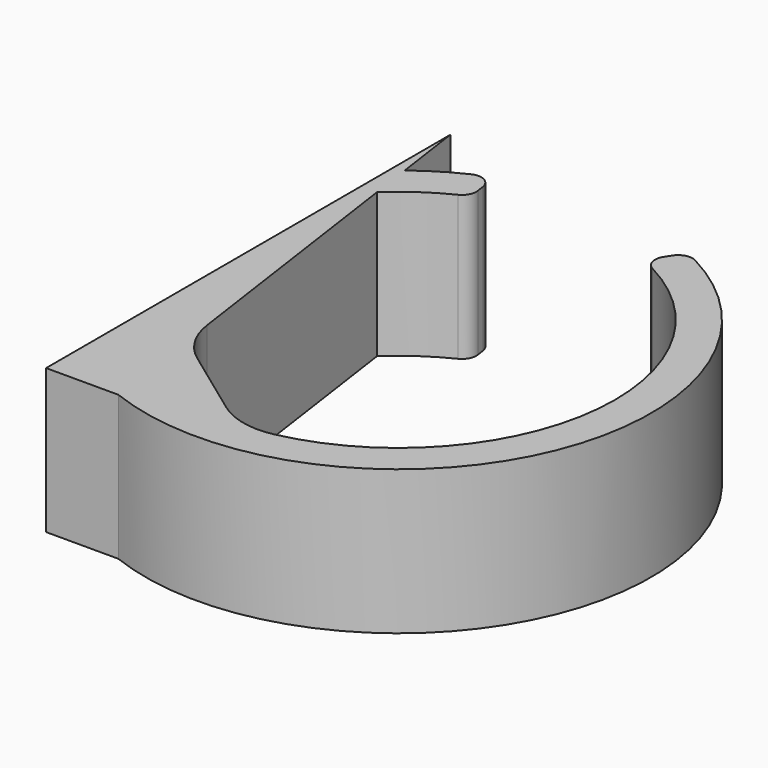
from build123d import *

# Parameters (mm, degrees)
F1_DEPTH = 10


with BuildPart() as f1:
    # F0 (on Top) → F1 (new body)
    with BuildSketch(Plane.XY):
        with BuildLine():
            Line((0, 35), (0, 0))
            Line((0, 0), (5, 0))
            ThreePointArc((5, 0), (27.268138, 9.037983), (19.515337, 31.785493))
            ThreePointArc((19.515337, 31.785493), (18.791109, 31.867286), (18.203721, 31.43581))
            Line((18.203721, 31.43581), (17.935476, 31.011956))
            ThreePointArc((17.935476, 31.011956), (17.81454, 30.218384), (18.316033, 29.591577))
            ThreePointArc((18.316033, 29.591577), (26.210162, 14.267979), (14.479586, 1.637717))
            ThreePointArc((14.479586, 1.637717), (12.394446, 1.637374), (10.490482, 2.487509))
            Line((10.490482, 2.487509), (5.670462, 6.001867))
            ThreePointArc((5.670462, 6.001867), (4.331112, 7.465551), (3.666444, 9.334894))
            Line((3.666444, 9.334894), (1.105092, 27.264357))
            ThreePointArc((1.105092, 27.264357), (2.816973, 28.644292), (4.712199, 29.759137))
            ThreePointArc((4.712199, 29.759137), (5.154266, 30.18947), (5.259664, 30.797335))
            Line((5.259664, 30.797335), (5.185379, 31.317331))
            ThreePointArc((5.185379, 31.317331), (4.66625, 32.058139), (3.761852, 32.077026))
            ThreePointArc((3.761852, 32.077026), (2.175949, 31.2104), (0.687881, 30.184836))
            Line((0.687881, 30.184836), (0, 35))
        make_face()
    extrude(amount=F1_DEPTH)


solid = f1.part
